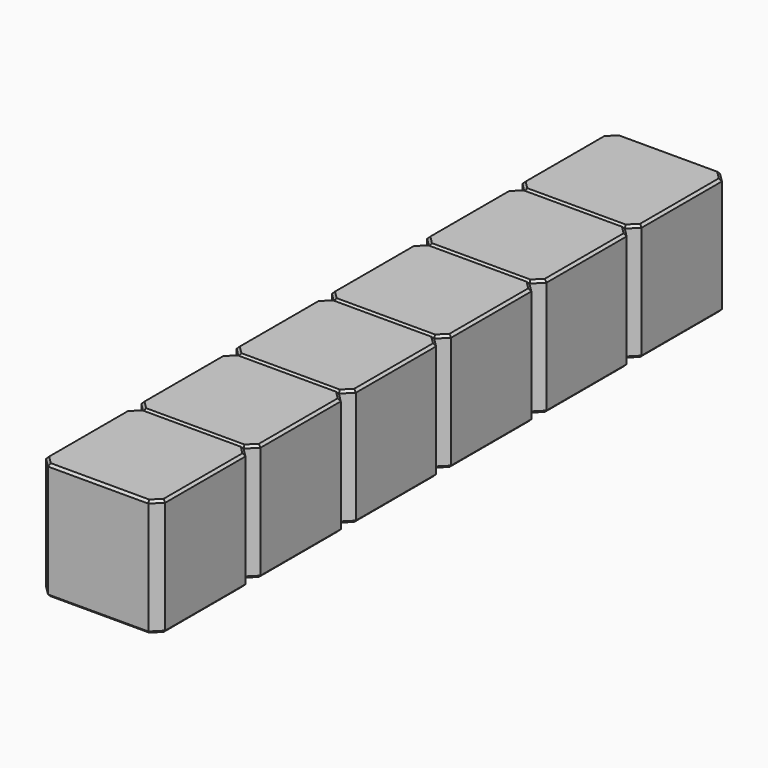
from build123d import *

# Parameters (mm, degrees)
SKETCH233_W      = 2.54
SKETCH233_H      = 2.54
PAD088_DEPTH     = 2.5
CHAMFER052_SIZE  = 0.2
CHAMFER051_SIZE  = 0.05
ARRAY024_Y_COUNT = 6
ARRAY024_Y_PITCH = 2.54


with BuildPart() as array024:
    # Sketch233 → Pad088 (new body)
    with BuildSketch(Plane.XY):
        Rectangle(SKETCH233_W, SKETCH233_H)
    extrude(amount=PAD088_DEPTH)

    # Chamfer052
    chamfer052_edges = [array024.edges().sort_by_distance(p)[0] for p in [
        (1.27, -1.27, 1.25),
        (-1.27, -1.27, 1.25),
        (1.27, 1.27, 1.25),
        (-1.27, 1.27, 1.25),
    ]]
    chamfer(chamfer052_edges, length=CHAMFER052_SIZE)

    # Chamfer051
    chamfer051_edges = [array024.edges().sort_by_distance(p)[0] for p in [
        (0, -1.27, 2.5),
        (-1.17, -1.17, 2.5),
        (1.17, -1.17, 2.5),
        (-1.27, 0, 2.5),
        (1.27, 0, 2.5),
        (-1.17, 1.17, 2.5),
        (1.17, 1.17, 2.5),
        (0, 1.27, 2.5),
        (0, -1.27, 0),
        (-1.17, -1.17, 0),
        (1.17, -1.17, 0),
        (-1.27, 0, 0),
        (1.27, 0, 0),
        (-1.17, 1.17, 0),
        (1.17, 1.17, 0),
        (0, 1.27, 0),
    ]]
    chamfer(chamfer051_edges, length=CHAMFER051_SIZE)


with BuildPart() as array024_copy1:
    # Array024 Y: instance of Array024
    add(array024.part.moved(Location(Vector(0, 1, 0) * (1 * ARRAY024_Y_PITCH))))


with BuildPart() as array024_copy2:
    # Array024 Y: instance of Array024
    add(array024.part.moved(Location(Vector(0, 1, 0) * (2 * ARRAY024_Y_PITCH))))


with BuildPart() as array024_copy3:
    # Array024 Y: instance of Array024
    add(array024.part.moved(Location(Vector(0, 1, 0) * (3 * ARRAY024_Y_PITCH))))


with BuildPart() as array024_copy4:
    # Array024 Y: instance of Array024
    add(array024.part.moved(Location(Vector(0, 1, 0) * (4 * ARRAY024_Y_PITCH))))


with BuildPart() as array024_copy5:
    # Array024 Y: instance of Array024
    add(array024.part.moved(Location(Vector(0, 1, 0) * (5 * ARRAY024_Y_PITCH))))


solid = Compound([array024.part, array024_copy1.part, array024_copy2.part, array024_copy3.part, array024_copy4.part, array024_copy5.part])
